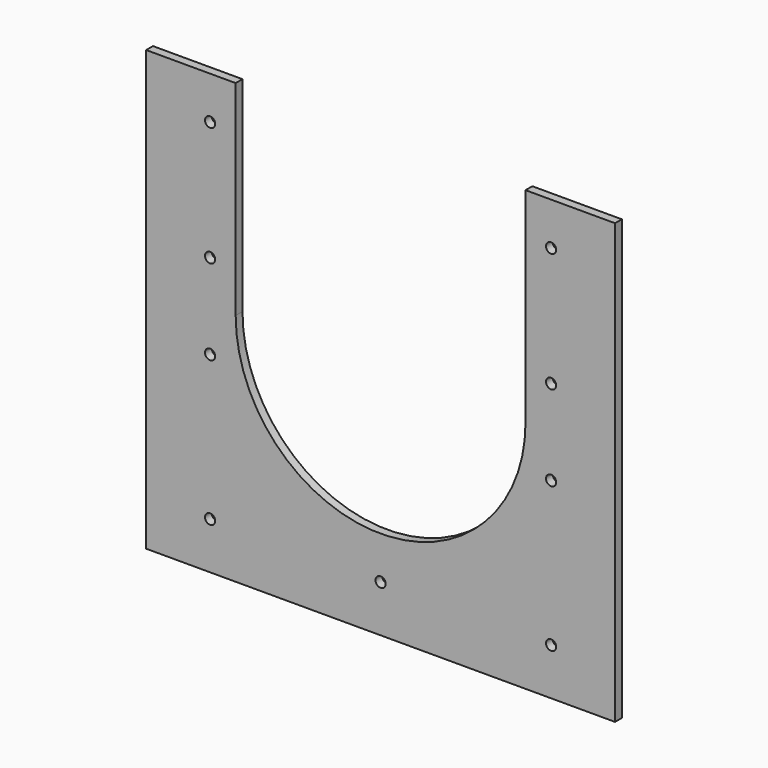
from build123d import *

# Parameters (mm, degrees)
SKETCH005_R      = 6
EXTRUDE004_DEPTH = 1000
EXTRUDE003_DEPTH = 1000
SKETCH003_W      = 550
SKETCH003_H      = 10
EXTRUDE002_DEPTH = 515


with BuildPart() as extrude004:
    # Sketch005 → Extrude004 (new body)
    with BuildSketch(Plane.XZ.offset(2500)):
        with Locations((-200, 1730)):
            Circle(SKETCH005_R)
        with Locations((-200, 1870)):
            Circle(SKETCH005_R)
        with Locations((200, 1870)):
            Circle(SKETCH005_R)
        with Locations((200, 1730)):
            Circle(SKETCH005_R)
        with Locations((-200, 1630)):
            Circle(SKETCH005_R)
        with Locations((-200, 1460)):
            Circle(SKETCH005_R)
        with Locations((200, 1630)):
            Circle(SKETCH005_R)
        with Locations((200, 1460)):
            Circle(SKETCH005_R)
        with Locations((0, 1460)):
            Circle(SKETCH005_R)
    extrude(amount=-EXTRUDE004_DEPTH)


with BuildPart() as extrude003:
    # Sketch004 → Extrude003 (new body)
    with BuildSketch(Plane.XZ.offset(2500)):
        with BuildLine():
            Line((-170, 1920), (-170, 1680))
            ThreePointArc((-170, 1680), (-4.8e-05, 1510), (170, 1679.999905))
            Line((170, 1679.999905), (170, 1920))
            Line((170, 1920), (-170, 1920))
        make_face()
    extrude(amount=-EXTRUDE003_DEPTH)


with BuildPart() as cut002:
    # Sketch003 → Extrude002 (new body)
    with BuildSketch(Plane.XY.offset(1405)):
        with Locations((0, -1670.580576)):
            Rectangle(SKETCH003_W, SKETCH003_H)
    extrude(amount=EXTRUDE002_DEPTH)

    # Cut001: cut Extrude003
    add(extrude003.part, mode=Mode.SUBTRACT)

    # Cut002: cut Extrude004
    add(extrude004.part, mode=Mode.SUBTRACT)


solid = cut002.part
